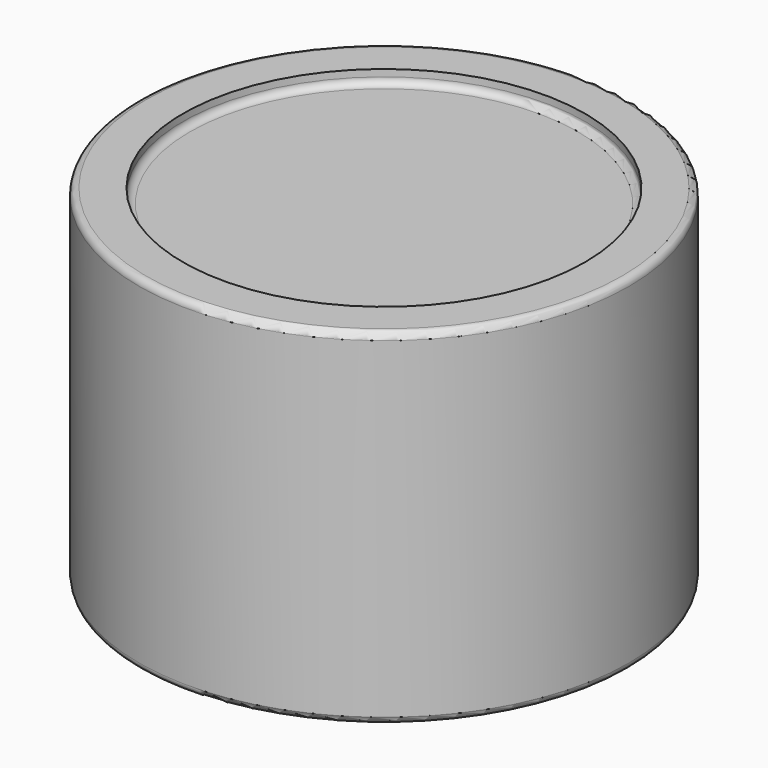
from build123d import *

# Parameters (mm, degrees)
SKETCH_R        = 3.55
PAD_DEPTH       = 5
SKETCH004_R     = 2.912147
POCKET001_DEPTH = 0.2
FILLET001_R     = 0.1
FILLET002_R     = 0.1


with BuildPart() as part:
    # Sketch → Pad (new body)
    with BuildSketch(Plane.XY.offset(0.1)):
        Circle(SKETCH_R)
    extrude(amount=PAD_DEPTH)

    # Sketch004 → Pocket001 (cut)
    with BuildSketch(Plane.XY.offset(5.1)):
        Circle(SKETCH004_R)
    extrude(amount=-POCKET001_DEPTH, mode=Mode.SUBTRACT)

    # Fillet001
    fillet001_edges = [part.edges().sort_by_distance(p)[0] for p in [
        (-2.912147, 0, 4.9),
    ]]
    fillet(fillet001_edges, radius=FILLET001_R)

    # Fillet002
    fillet002_edges = [part.edges().sort_by_distance(p)[0] for p in [
        (-3.55, 0, 0.1),
        (-3.55, 0, 5.1),
    ]]
    fillet(fillet002_edges, radius=FILLET002_R)


solid = part.part
